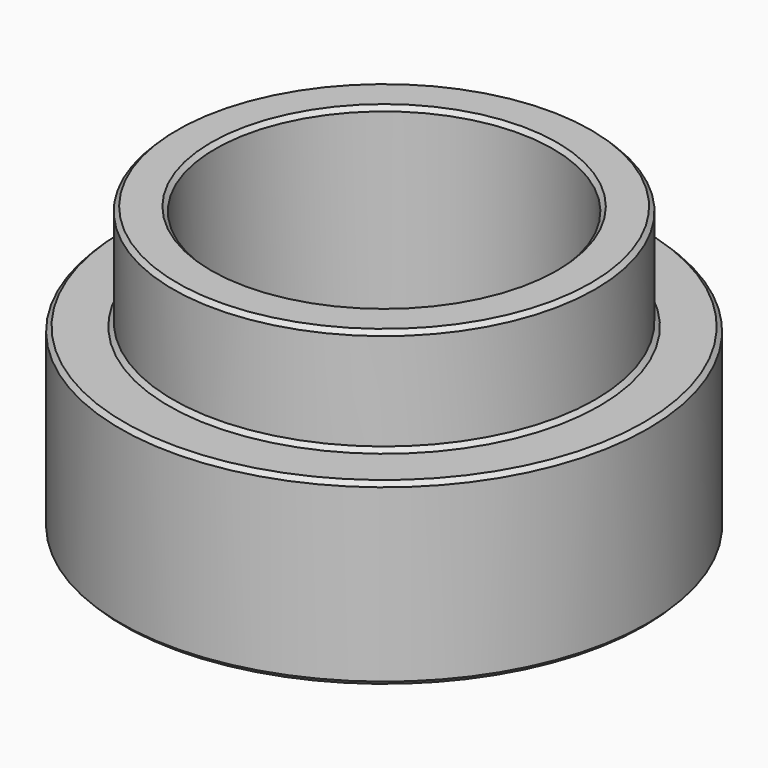
from build123d import *

# Parameters (mm, degrees)
F0_R     = 12.5
F1_DEPTH = 8.5
F2_R     = 10
F3_DEPTH = 5
F4_R     = 8
F5_DEPTH = 13.501
F6_SIZE  = 0.2


with BuildPart() as f1:
    # F0 (on Top) → F1 (new body)
    with BuildSketch(Plane.XY):
        Circle(F0_R)
    extrude(amount=F1_DEPTH)

    # F2 (on face) → F3 (join)
    with BuildSketch(Plane.XY.offset(8.5)):
        Circle(F2_R)
    extrude(amount=F3_DEPTH)

    # F4 (on face) → F5 (cut, through all)
    with BuildSketch(Plane.XY.offset(13.5)):
        Circle(F4_R)
    extrude(amount=-F5_DEPTH, mode=Mode.SUBTRACT)

    # F6
    f6_edges = [f1.edges().sort_by_distance(p)[0] for p in [
        (-10, 0, 13.5),
        (-8, 0, 13.5),
        (-12.5, 0, 8.5),
        (-10, 0, 8.5),
        (-12.5, 0, 0),
        (-8, 0, 0),
    ]]
    chamfer(f6_edges, length=F6_SIZE)


solid = f1.part
